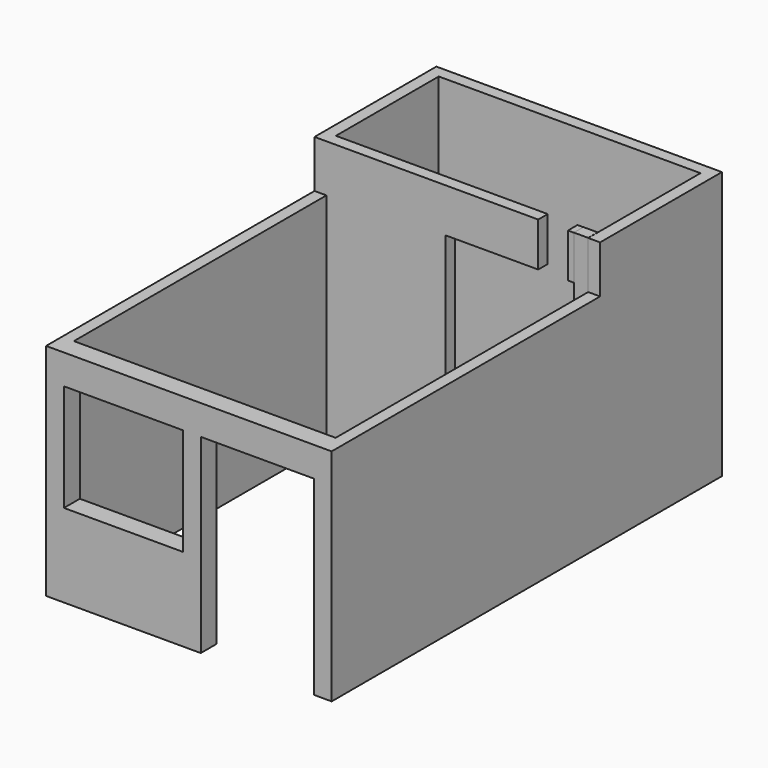
from build123d import *

# Parameters (mm, degrees)
F0_W      = 1000
F0_H      = 100
F1_DEPTH  = 2250
F2_START  = 1880
F0_W_2    = 50
F0_W_3    = 780
F2_DEPTH  = 370
F3_START  = 1850
F3_DEPTH  = 400
F4_W      = 1000
F4_H      = 900
F4_W_2    = 950
F4_H_2    = 1600
F5_DEPTH  = 167.155430442
F0_W_4    = 150
F6_DEPTH  = 50
F7_DEPTH  = 2251
F0_W_5    = 100
F0_H_2    = 50
F8_DEPTH  = 1100
F0_H_3    = 980
F9_DEPTH  = 50
F10_START = 1050
F10_DEPTH = 50
F11_START = 1050
F11_DEPTH = 50
F12_START = 1050
F12_DEPTH = 50
F13_DEPTH = 1100
F14_DEPTH = 1100


with BuildPart() as f1:
    # F0 (on Top) → F1 (new body)
    with BuildSketch(Plane.XY):
        Polygon((-1154.5758843422, 167.155430442), (-1154.5758843422, 2820), (-1254.5758843422, 2820), (-1254.5758843422, 0), (1145.4241156578, 0), (1145.4241156578, 2820), (1045.4241156578, 2820), (1045.4241156578, 167.155430442), align=None)
        Polygon((-1154.5758843422, 2920), (-1154.5758843422, 4000), (625.4241156578, 4000), (725.4241156578, 4000), (727.4350166321, 4000), (995.4241156578, 4000), (1045.4241156578, 4000), (1045.4241156578, 3900), (1045.4241156578, 2920), (1045.4241156578, 2820), (1145.4241156578, 2820), (1145.4241156578, 4100), (-1254.5758843422, 4100), (-1254.5758843422, 2820), (-1154.5758843422, 2820), align=None)
        with Locations((-654.5758843422, 2870)):
            Rectangle(F0_W, F0_H)
        Polygon((925.4241156578, 2820), (1045.4241156578, 2820), (1045.4241156578, 2920), (995.4241156578, 2920), (925.4241156578, 2920), align=None)
    extrude(amount=F1_DEPTH)

    # F0 (on Top) → F2 (join)
    with BuildSketch(Plane.XY.offset(F2_START)):
        with Locations((900.4241156578, 2870)):
            Rectangle(F0_W_2, F0_H)
        with Locations((235.4241156578, 2870)):
            Rectangle(F0_W_3, F0_H)
        with Locations((235.4241156578, 2870)):
            Rectangle(F0_W_3, F0_H)
    extrude(amount=F2_DEPTH)

    # F0 (on Top) → F3 (cut)
    with BuildSketch(Plane.XY.offset(F3_START)):
        Polygon((-1154.5758843422, 167.155430442), (-1154.5758843422, 2820), (-1254.5758843422, 2820), (-1254.5758843422, 0), (1145.4241156578, 0), (1145.4241156578, 2820), (1045.4241156578, 2820), (1045.4241156578, 167.155430442), align=None)
    extrude(amount=F3_DEPTH, mode=Mode.SUBTRACT)

    # F4 (on face) → F5 (cut, through all)
    with BuildSketch(Plane.XZ):
        with Locations((-604.5758843422, 1150)):
            Rectangle(F4_W, F4_H)
        with Locations((520.4241156578, 800)):
            Rectangle(F4_W_2, F4_H_2)
    extrude(amount=-F5_DEPTH, mode=Mode.SUBTRACT)


with BuildPart() as f6:
    # F0 (on Top) → F6 (new body)
    with BuildSketch(Plane.XY):
        with Locations((700.4241156578, 2870)):
            Rectangle(F0_W_2, F0_H)
        with Locations((800.4241156578, 2870)):
            Rectangle(F0_W_4, F0_H)
    extrude(amount=F6_DEPTH)


with BuildPart() as f7:
    # F0 (on Top) → F7 (new body)
    with BuildSketch(Plane.XY):
        Polygon((925.4241156578, 2820), (1045.4241156578, 2820), (1045.4241156578, 2920), (995.4241156578, 2920), (925.4241156578, 2920), align=None)
    extrude(amount=F7_DEPTH)


with BuildPart() as f8:
    # F0 (on Top) → F8 (new body)
    with BuildSketch(Plane.XY):
        with Locations((675.4241156578, 3975)):
            Rectangle(F0_W_5, F0_H_2)
    extrude(amount=F8_DEPTH)


with BuildPart() as f9:
    # F0 (on Top) → F9 (new body)
    with BuildSketch(Plane.XY):
        with Locations((675.4241156578, 3460)):
            Rectangle(F0_W_5, F0_H_3)
    extrude(amount=F9_DEPTH)


with BuildPart() as f10:
    # F0 (on Top) → F10 (new body)
    with BuildSketch(Plane.XY.offset(F10_START)):
        with Locations((675.4241156578, 3460)):
            Rectangle(F0_W_5, F0_H_3)
    extrude(amount=F10_DEPTH)


with BuildPart() as f11:
    # F0 (on Top) → F11 (new body)
    with BuildSketch(Plane.XY.offset(F11_START)):
        with Locations((700.4241156578, 2870)):
            Rectangle(F0_W_2, F0_H)
        with Locations((800.4241156578, 2870)):
            Rectangle(F0_W_4, F0_H)
    extrude(amount=F11_DEPTH)


with BuildPart() as f12:
    # F0 (on Top) → F12 (new body)
    with BuildSketch(Plane.XY.offset(F12_START)):
        with Locations((1020.4241156578, 3950)):
            Rectangle(F0_W_2, F0_H)
        with Locations((1020.4241156578, 3410)):
            Rectangle(F0_W_2, F0_H_3)
    extrude(amount=F12_DEPTH)


with BuildPart() as f13:
    # F0 (on Top) → F13 (new body, through all)
    with BuildSketch(Plane.XY):
        with Locations((650.4241156578, 2870)):
            Rectangle(F0_W_2, F0_H)
    extrude(amount=F13_DEPTH)


with BuildPart() as f13b:
    # F0 (on Top) → F13, piece 2 (new body, through all)
    with BuildSketch(Plane.XY):
        with Locations((900.4241156578, 2870)):
            Rectangle(F0_W_2, F0_H)
    extrude(amount=F13_DEPTH)


with BuildPart() as f14:
    # F0 (on Top) → F14 (new body, through all)
    with BuildSketch(Plane.XY):
        Polygon((725.4241156578, 2970), (625.4241156578, 2970), (625.4241156578, 2920), (675.4241156578, 2920), (725.4241156578, 2920), align=None)
    extrude(amount=F14_DEPTH)


solid = Compound([f1.part, f6.part, f7.part, f8.part, f9.part, f10.part, f11.part, f12.part, f13.part, f13b.part, f14.part])
